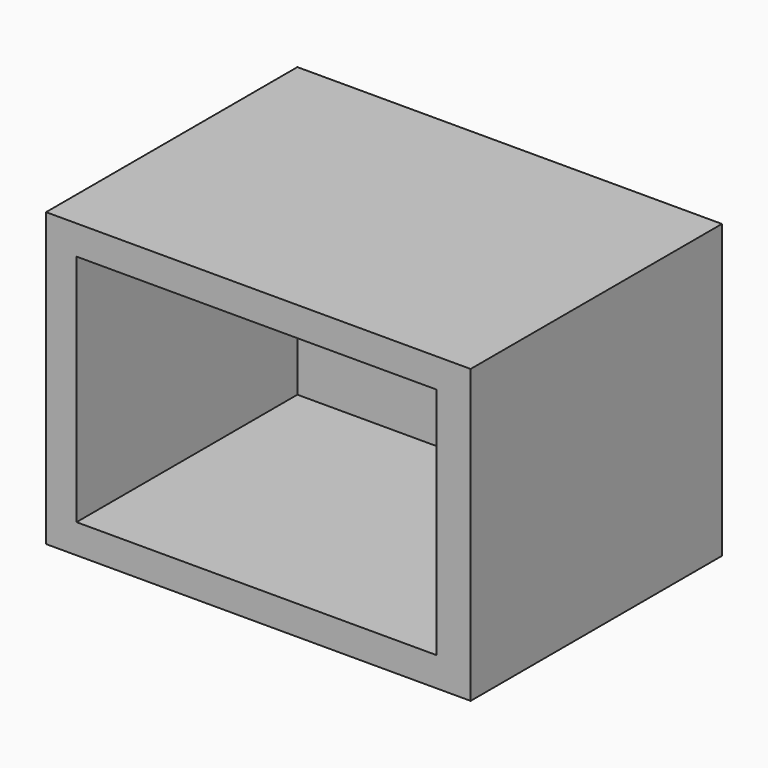
from build123d import *

# Parameters (mm, degrees)
F1_DEPTH = 50
F3_W     = 72.638307
F3_H     = 53.745832
F4_DEPTH = 5
F5_W     = 72.638307
F5_H     = 53.745832
F6_DEPTH = 5


with BuildPart() as f1:
    # F0 (on Top) → F1 (new body)
    with BuildSketch(Plane.XY):
        Polygon((-39.250743, -16.938083), (-34.039024, -16.938083), (-34.039024, 30.293103), (27.524386, 30.293103), (27.524386, -16.938083), (33.387564, -16.938083), (33.387564, 36.807749), (-39.250743, 36.807749), align=None)
    extrude(amount=F1_DEPTH)

    # F3 (on offset) → F4 (join)
    with BuildSketch(Plane.XY.offset(50)):
        with Locations((-2.93159, 9.934833)):
            Rectangle(F3_W, F3_H)
    extrude(amount=-F4_DEPTH)

    # F5 (on Top) → F6 (join)
    with BuildSketch(Plane.XY):
        with Locations((-2.93159, 9.934833)):
            Rectangle(F5_W, F5_H)
    extrude(amount=F6_DEPTH)


solid = f1.part
